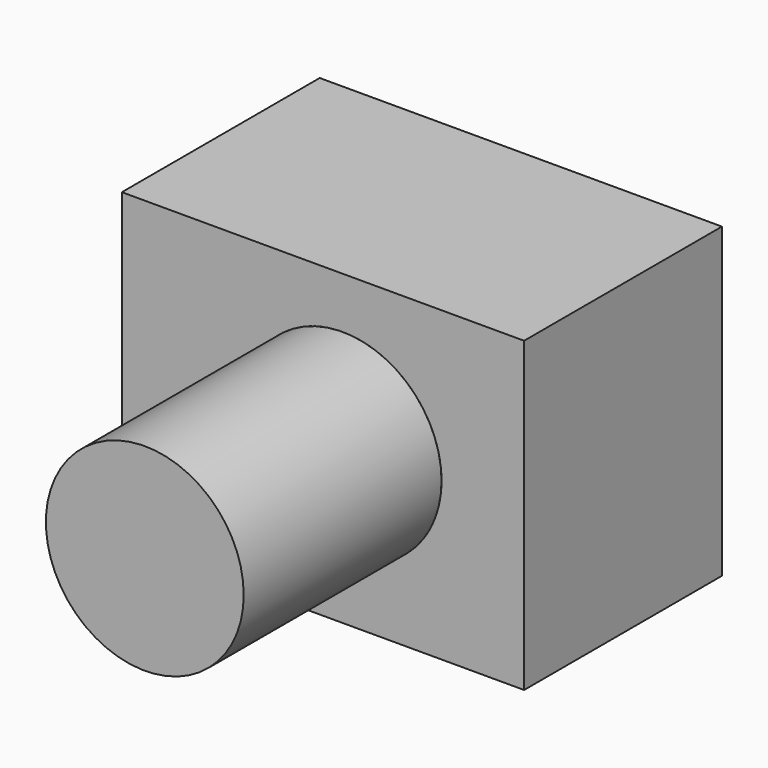
from build123d import *

# Parameters (mm, degrees)
F0_R     = 10
F1_DEPTH = 25
F2_W     = 40.666526
F2_H     = 31.086905
F2_R     = 10
F3_DEPTH = 25


with BuildPart() as f1:
    # F0 (on Front) → F1 (new body)
    with BuildSketch(Plane.XZ):
        Circle(F0_R)
    extrude(amount=F1_DEPTH)


with BuildPart() as f3:
    # F2 (on face) → F3 (new body)
    with BuildSketch(Plane(origin=(0, 0, 0), x_dir=(-1, 0, 0), z_dir=(0, 1, 0))):
        with Locations((1.984664, -0.363933)):
            Rectangle(F2_W, F2_H)
        Circle(F2_R, mode=Mode.SUBTRACT)
    extrude(amount=F3_DEPTH)


solid = Compound([f1.part, f3.part])
